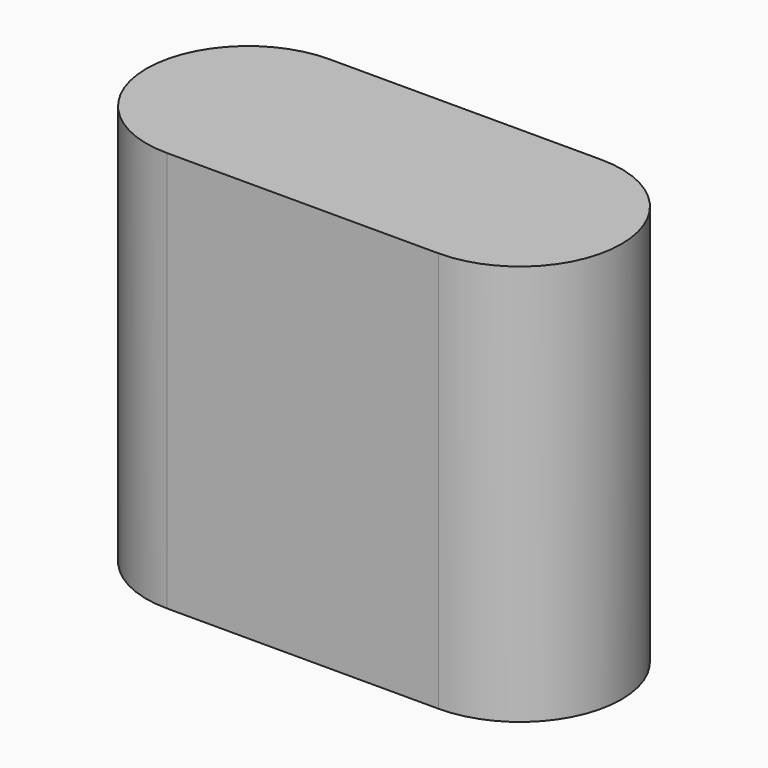
from build123d import *

# Parameters (mm, degrees)
F1_DEPTH = 2
F2_DEPTH = 25


with BuildPart() as f1:
    # F0 (on Top) → F1 (new body)
    with BuildSketch(Plane.XY):
        with BuildLine():
            ThreePointArc((8.4767164662, 6.3331793062), (2.14353716, 0), (8.4767164662, -6.3331793062))
            Line((8.4767164662, -6.3331793062), (8.4767164662, 6.3331793062))
        make_face()
        with BuildLine():
            Line((-8.4767164662, -6.3331793062), (8.4767164662, -6.3331793062))
            ThreePointArc((8.4767164662, -6.3331793062), (2.14353716, 0), (8.4767164662, 6.3331793062))
            Line((8.4767164662, 6.3331793062), (-8.4767164662, 6.3331793062))
            ThreePointArc((-8.4767164662, 6.3331793062), (-3.9984824323, 4.4782340339), (-2.14353716, 0))
            ThreePointArc((-2.14353716, 0), (-3.9984824323, -4.4782340339), (-8.4767164662, -6.3331793062))
        make_face()
        with BuildLine():
            Line((8.4767164662, 6.3331793062), (8.4767164662, -6.3331793062))
            ThreePointArc((8.4767164662, -6.3331793062), (12.9549505002, -4.4782340339), (14.8098957725, 0))
            ThreePointArc((14.8098957725, 0), (12.9549505002, 4.4782340339), (8.4767164662, 6.3331793062))
        make_face()
        with BuildLine():
            ThreePointArc((-8.4767164662, 6.3331793062), (-14.8098957725, 0), (-8.4767164662, -6.3331793062))
            Line((-8.4767164662, -6.3331793062), (-8.4767164662, 6.3331793062))
        make_face()
        with BuildLine():
            Line((-8.4767164662, 6.3331793062), (-8.4767164662, -6.3331793062))
            ThreePointArc((-8.4767164662, -6.3331793062), (-3.9984824323, -4.4782340339), (-2.14353716, 0))
            ThreePointArc((-2.14353716, 0), (-3.9984824323, 4.4782340339), (-8.4767164662, 6.3331793062))
        make_face()
    extrude(amount=F1_DEPTH)

    # F0 (on Top) → F2 (join)
    with BuildSketch(Plane.XY):
        with BuildLine():
            ThreePointArc((8.4767164662, 6.3331793062), (2.14353716, 0), (8.4767164662, -6.3331793062))
            Line((8.4767164662, -6.3331793062), (8.4767164662, 6.3331793062))
        make_face()
        with BuildLine():
            Line((-8.4767164662, -6.3331793062), (8.4767164662, -6.3331793062))
            ThreePointArc((8.4767164662, -6.3331793062), (2.14353716, 0), (8.4767164662, 6.3331793062))
            Line((8.4767164662, 6.3331793062), (-8.4767164662, 6.3331793062))
            ThreePointArc((-8.4767164662, 6.3331793062), (-3.9984824323, 4.4782340339), (-2.14353716, 0))
            ThreePointArc((-2.14353716, 0), (-3.9984824323, -4.4782340339), (-8.4767164662, -6.3331793062))
        make_face()
        with BuildLine():
            Line((8.4767164662, 6.3331793062), (8.4767164662, -6.3331793062))
            ThreePointArc((8.4767164662, -6.3331793062), (12.9549505002, -4.4782340339), (14.8098957725, 0))
            ThreePointArc((14.8098957725, 0), (12.9549505002, 4.4782340339), (8.4767164662, 6.3331793062))
        make_face()
        with BuildLine():
            ThreePointArc((-8.4767164662, 6.3331793062), (-14.8098957725, 0), (-8.4767164662, -6.3331793062))
            Line((-8.4767164662, -6.3331793062), (-8.4767164662, 6.3331793062))
        make_face()
        with BuildLine():
            Line((-8.4767164662, 6.3331793062), (-8.4767164662, -6.3331793062))
            ThreePointArc((-8.4767164662, -6.3331793062), (-3.9984824323, -4.4782340339), (-2.14353716, 0))
            ThreePointArc((-2.14353716, 0), (-3.9984824323, 4.4782340339), (-8.4767164662, 6.3331793062))
        make_face()
    extrude(amount=F2_DEPTH)


solid = f1.part
